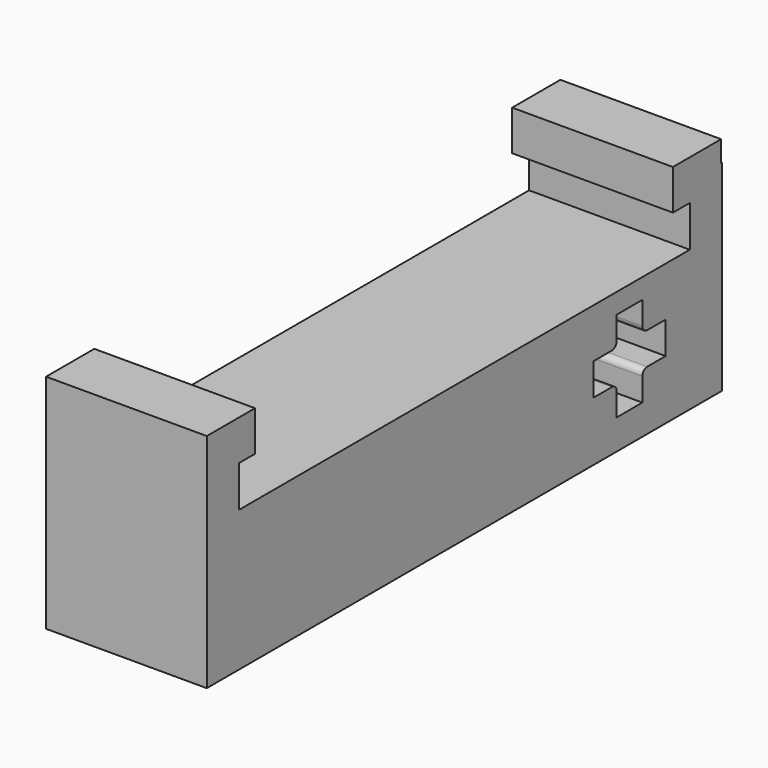
from build123d import *

# Parameters (mm, degrees)
BOX005_W     = 8
BOX005_H     = 3
BOX005_DEPTH = 2
BOX001_W     = 80
BOX001_H     = 4.5
BOX001_DEPTH = 1.6
BOX_W        = 80
BOX_H        = 4.5
BOX_DEPTH    = 1.6
BOX002_W     = 8
BOX002_H     = 7.5
BOX002_DEPTH = 7
FILLET_R     = 0.3
BOX003_W     = 8
BOX003_H     = 2
BOX003_DEPTH = 10
BOX006_W     = 8
BOX006_H     = 21
BOX006_DEPTH = 7
BOX007_W     = 8
BOX007_H     = 3
BOX007_DEPTH = 2
BOX008_W     = 8
BOX008_H     = 2
BOX008_DEPTH = 10


with BuildPart() as cube005:
    # Box005 → Box005 (new body)
    with BuildSketch(Plane(origin=(0, 2.7, 5.3), x_dir=(1, 0, 0), z_dir=(0, 0, 1))):
        with Locations((4, 1.5)):
            Rectangle(BOX005_W, BOX005_H)
    extrude(amount=BOX005_DEPTH)


with BuildPart() as cube001:
    # Box001 → Box001 (new body)
    with BuildSketch(Plane(origin=(0, 0.8, -2.25), x_dir=(1, 0, 0), z_dir=(0, -1, 0))):
        with Locations((40, 2.25)):
            Rectangle(BOX001_W, BOX001_H)
    extrude(amount=BOX001_DEPTH)


with BuildPart() as fusion:
    # Box → Box (new body)
    with BuildSketch(Plane(origin=(0, -2.25, -0.8), x_dir=(1, 0, 0), z_dir=(0, 0, 1))):
        with Locations((40, 2.25)):
            Rectangle(BOX_W, BOX_H)
    extrude(amount=BOX_DEPTH)

    # Fusion: union Cube001
    add(cube001.part)


with BuildPart() as fusion_1:
    # Fusion placement: moved
    add(fusion.part.moved(Location((-5, 0, 0))))


with BuildPart() as fillet_body:
    # Box002 → Box002 (new body)
    with BuildSketch(Plane(origin=(0, -3.75, -3.75), x_dir=(1, 0, 0), z_dir=(0, 0, 1))):
        with Locations((4, 3.75)):
            Rectangle(BOX002_W, BOX002_H)
    extrude(amount=BOX002_DEPTH)

    # Cut: cut Fusion
    add(fusion_1.part, mode=Mode.SUBTRACT)

    # Fillet
    fillet_edges = [fillet_body.edges().sort_by_distance(p)[0] for p in [
        (4, -0.8, 0.8),
        (4, -0.8, -0.8),
        (4, 0.8, -0.8),
        (4, 0.8, 0.8),
    ]]
    fillet(fillet_edges, radius=FILLET_R)


with BuildPart() as fusion001:
    # Box003 → Box003 (new body)
    with BuildSketch(Plane(origin=(0, 3.75, -3.75), x_dir=(1, 0, 0), z_dir=(0, 0, 1))):
        with Locations((4, 1)):
            Rectangle(BOX003_W, BOX003_H)
    extrude(amount=BOX003_DEPTH)

    # Fusion001: union Cube005, Fillet body
    add(cube005.part)
    add(fillet_body.part)


with BuildPart() as fusion002:
    # Box006 → Box006 (new body)
    with BuildSketch(Plane(origin=(0, -24.3, -3.75), x_dir=(1, 0, 0), z_dir=(0, 0, 1))):
        with Locations((4, 10.5)):
            Rectangle(BOX006_W, BOX006_H)
    extrude(amount=BOX006_DEPTH)

    # Fusion002: union Fusion001
    add(fusion001.part)


with BuildPart() as cube007:
    # Box007 → Box007 (new body)
    with BuildSketch(Plane(origin=(0, -26.3, 5.3), x_dir=(1, 0, 0), z_dir=(0, 0, 1))):
        with Locations((4, 1.5)):
            Rectangle(BOX007_W, BOX007_H)
    extrude(amount=BOX007_DEPTH)


with BuildPart() as fusion004:
    # Box008 → Box008 (new body)
    with BuildSketch(Plane(origin=(0, -26.3, -3.75), x_dir=(1, 0, 0), z_dir=(0, 0, 1))):
        with Locations((4, 1)):
            Rectangle(BOX008_W, BOX008_H)
    extrude(amount=BOX008_DEPTH)

    # Fusion003: union Cube007
    add(cube007.part)

    # Fusion004: union Fusion002
    add(fusion002.part)


solid = fusion004.part
